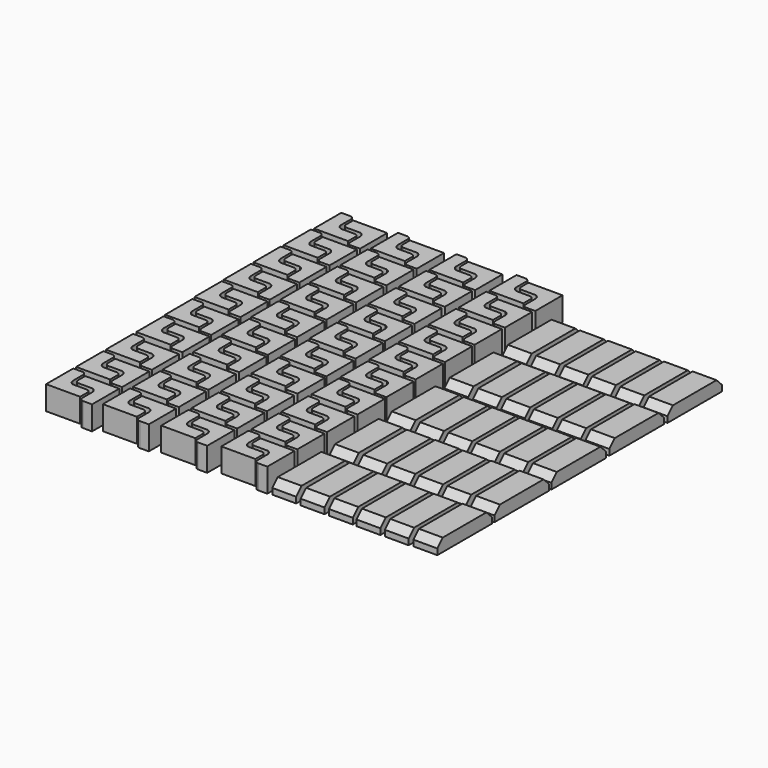
from build123d import *

# Parameters (mm, degrees)
F1_DEPTH = 8.89
F2_W     = 8.89
F2_H     = 25.4
F3_DEPTH = 4.7625
F4_SIZE  = 2.54


with BuildPart() as f1:
    # F0 (on Top) → F1 (new body)
    with BuildSketch(Plane.XY):
        with BuildLine():
            Line((2.519087, 15.039686), (2.519087, 2.339686))
            Line((2.519087, 2.339686), (15.219087, 2.339686))
            Line((15.219087, 2.339686), (15.219087, 5.682987))
            ThreePointArc((15.219087, 5.682987), (14.803414, 6.686512), (13.799888, 7.102186))
            Line((13.799888, 7.102186), (8.71567, 7.102186))
            ThreePointArc((8.71567, 7.102186), (7.67876, 7.840936), (7.281587, 9.050559))
            Line((7.281587, 9.050559), (7.281587, 13.620487))
            ThreePointArc((7.281587, 13.620487), (6.865914, 14.624012), (5.862388, 15.039686))
            Line((5.862388, 15.039686), (2.519087, 15.039686))
        make_face()
        with BuildLine():
            Line((20.947106, 0.746839), (20.947106, 13.446839))
            Line((20.947106, 13.446839), (8.247106, 13.446839))
            Line((8.247106, 13.446839), (8.247106, 10.103538))
            ThreePointArc((8.247106, 10.103538), (8.66278, 9.100012), (9.666305, 8.684339))
            Line((9.666305, 8.684339), (14.750524, 8.684339))
            ThreePointArc((14.750524, 8.684339), (15.787434, 7.945588), (16.184606, 6.735965))
            Line((16.184606, 6.735965), (16.184606, 2.166038))
            ThreePointArc((16.184606, 2.166038), (16.60028, 1.162512), (17.603805, 0.746839))
            Line((17.603805, 0.746839), (20.947106, 0.746839))
        make_face()
        with BuildLine():
            Line((2.54, 29.009686), (2.54, 16.309686))
            Line((2.54, 16.309686), (15.24, 16.309686))
            Line((15.24, 16.309686), (15.24, 19.652987))
            ThreePointArc((15.24, 19.652987), (14.824326, 20.656512), (13.820801, 21.072186))
            Line((13.820801, 21.072186), (8.736582, 21.072186))
            ThreePointArc((8.736582, 21.072186), (7.699673, 21.810936), (7.3025, 23.020559))
            Line((7.3025, 23.020559), (7.3025, 27.590487))
            ThreePointArc((7.3025, 27.590487), (6.886826, 28.594012), (5.883301, 29.009686))
            Line((5.883301, 29.009686), (2.54, 29.009686))
        make_face()
        with BuildLine():
            Line((20.968019, 14.716839), (20.968019, 27.416839))
            Line((20.968019, 27.416839), (8.268019, 27.416839))
            Line((8.268019, 27.416839), (8.268019, 24.073538))
            ThreePointArc((8.268019, 24.073538), (8.683693, 23.070012), (9.687218, 22.654339))
            Line((9.687218, 22.654339), (14.771437, 22.654339))
            ThreePointArc((14.771437, 22.654339), (15.808346, 21.915588), (16.205519, 20.705965))
            Line((16.205519, 20.705965), (16.205519, 16.136038))
            ThreePointArc((16.205519, 16.136038), (16.621193, 15.132512), (17.624718, 14.716839))
            Line((17.624718, 14.716839), (20.968019, 14.716839))
        make_face()
        with BuildLine():
            Line((2.4892, 42.939077), (2.4892, 30.239077))
            Line((2.4892, 30.239077), (15.1892, 30.239077))
            Line((15.1892, 30.239077), (15.1892, 33.582378))
            ThreePointArc((15.1892, 33.582378), (14.773526, 34.585904), (13.770001, 35.001577))
            Line((13.770001, 35.001577), (8.685782, 35.001577))
            ThreePointArc((8.685782, 35.001577), (7.648872, 35.740328), (7.2517, 36.949951))
            Line((7.2517, 36.949951), (7.2517, 41.519878))
            ThreePointArc((7.2517, 41.519878), (6.836026, 42.523404), (5.832501, 42.939077))
            Line((5.832501, 42.939077), (2.4892, 42.939077))
        make_face()
        with BuildLine():
            Line((20.917219, 28.64623), (20.917219, 41.34623))
            Line((20.917219, 41.34623), (8.217219, 41.34623))
            Line((8.217219, 41.34623), (8.217219, 38.002929))
            ThreePointArc((8.217219, 38.002929), (8.632892, 36.999404), (9.636418, 36.58373))
            Line((9.636418, 36.58373), (14.720636, 36.58373))
            ThreePointArc((14.720636, 36.58373), (15.757546, 35.84498), (16.154719, 34.635357))
            Line((16.154719, 34.635357), (16.154719, 30.065429))
            ThreePointArc((16.154719, 30.065429), (16.570392, 29.061904), (17.573918, 28.64623))
            Line((17.573918, 28.64623), (20.917219, 28.64623))
        make_face()
        with BuildLine():
            Line((2.4892, 57.163076), (2.4892, 44.463076))
            Line((2.4892, 44.463076), (15.1892, 44.463076))
            Line((15.1892, 44.463076), (15.1892, 47.806377))
            ThreePointArc((15.1892, 47.806377), (14.773526, 48.809902), (13.770001, 49.225576))
            Line((13.770001, 49.225576), (8.685782, 49.225576))
            ThreePointArc((8.685782, 49.225576), (7.648872, 49.964326), (7.2517, 51.173949))
            Line((7.2517, 51.173949), (7.2517, 55.743877))
            ThreePointArc((7.2517, 55.743877), (6.836026, 56.747402), (5.832501, 57.163076))
            Line((5.832501, 57.163076), (2.4892, 57.163076))
        make_face()
        with BuildLine():
            Line((20.917219, 42.870228), (20.917219, 55.570228))
            Line((20.917219, 55.570228), (8.217219, 55.570228))
            Line((8.217219, 55.570228), (8.217219, 52.226927))
            ThreePointArc((8.217219, 52.226927), (8.632892, 51.223402), (9.636418, 50.807728))
            Line((9.636418, 50.807728), (14.720636, 50.807728))
            ThreePointArc((14.720636, 50.807728), (15.757546, 50.068978), (16.154719, 48.859355))
            Line((16.154719, 48.859355), (16.154719, 44.289427))
            ThreePointArc((16.154719, 44.289427), (16.570392, 43.285902), (17.573918, 42.870228))
            Line((17.573918, 42.870228), (20.917219, 42.870228))
        make_face()
        with BuildLine():
            Line((2.2379, 70.930661), (2.2379, 58.230661))
            Line((2.2379, 58.230661), (14.9379, 58.230661))
            Line((14.9379, 58.230661), (14.9379, 61.573962))
            ThreePointArc((14.9379, 61.573962), (14.522226, 62.577487), (13.518701, 62.993161))
            Line((13.518701, 62.993161), (8.434482, 62.993161))
            ThreePointArc((8.434482, 62.993161), (7.397573, 63.731911), (7.0004, 64.941534))
            Line((7.0004, 64.941534), (7.0004, 69.511462))
            ThreePointArc((7.0004, 69.511462), (6.584726, 70.514987), (5.581201, 70.930661))
            Line((5.581201, 70.930661), (2.2379, 70.930661))
        make_face()
        with BuildLine():
            Line((20.665919, 56.637813), (20.665919, 69.337813))
            Line((20.665919, 69.337813), (7.965919, 69.337813))
            Line((7.965919, 69.337813), (7.965919, 65.994512))
            ThreePointArc((7.965919, 65.994512), (8.381593, 64.990987), (9.385118, 64.575313))
            Line((9.385118, 64.575313), (14.469337, 64.575313))
            ThreePointArc((14.469337, 64.575313), (15.506246, 63.836563), (15.903419, 62.62694))
            Line((15.903419, 62.62694), (15.903419, 58.057012))
            ThreePointArc((15.903419, 58.057012), (16.319093, 57.053487), (17.322618, 56.637813))
            Line((17.322618, 56.637813), (20.665919, 56.637813))
        make_face()
        with BuildLine():
            Line((1.898075, 85.015395), (1.898075, 72.315395))
            Line((1.898075, 72.315395), (14.598075, 72.315395))
            Line((14.598075, 72.315395), (14.598075, 75.658696))
            ThreePointArc((14.598075, 75.658696), (14.182402, 76.662221), (13.178876, 77.077895))
            Line((13.178876, 77.077895), (8.094658, 77.077895))
            ThreePointArc((8.094658, 77.077895), (7.057748, 77.816645), (6.660575, 79.026268))
            Line((6.660575, 79.026268), (6.660575, 83.596196))
            ThreePointArc((6.660575, 83.596196), (6.244902, 84.599721), (5.241376, 85.015395))
            Line((5.241376, 85.015395), (1.898075, 85.015395))
        make_face()
        with BuildLine():
            Line((20.326094, 70.722547), (20.326094, 83.422547))
            Line((20.326094, 83.422547), (7.626094, 83.422547))
            Line((7.626094, 83.422547), (7.626094, 80.079246))
            ThreePointArc((7.626094, 80.079246), (8.041768, 79.075721), (9.045293, 78.660047))
            Line((9.045293, 78.660047), (14.129512, 78.660047))
            ThreePointArc((14.129512, 78.660047), (15.166422, 77.921297), (15.563594, 76.711674))
            Line((15.563594, 76.711674), (15.563594, 72.141746))
            ThreePointArc((15.563594, 72.141746), (15.979268, 71.138221), (16.982793, 70.722547))
            Line((16.982793, 70.722547), (20.326094, 70.722547))
        make_face()
        with BuildLine():
            Line((1.708062, 98.904313), (1.708062, 86.204313))
            Line((1.708062, 86.204313), (14.408062, 86.204313))
            Line((14.408062, 86.204313), (14.408062, 89.547614))
            ThreePointArc((14.408062, 89.547614), (13.992388, 90.551139), (12.988863, 90.966813))
            Line((12.988863, 90.966813), (7.904644, 90.966813))
            ThreePointArc((7.904644, 90.966813), (6.867735, 91.705563), (6.470562, 92.915186))
            Line((6.470562, 92.915186), (6.470562, 97.485114))
            ThreePointArc((6.470562, 97.485114), (6.054888, 98.488639), (5.051363, 98.904313))
            Line((5.051363, 98.904313), (1.708062, 98.904313))
        make_face()
        with BuildLine():
            Line((20.136081, 84.611465), (20.136081, 97.311465))
            Line((20.136081, 97.311465), (7.436081, 97.311465))
            Line((7.436081, 97.311465), (7.436081, 93.968164))
            ThreePointArc((7.436081, 93.968164), (7.851755, 92.964639), (8.85528, 92.548965))
            Line((8.85528, 92.548965), (13.939499, 92.548965))
            ThreePointArc((13.939499, 92.548965), (14.976408, 91.810215), (15.373581, 90.600592))
            Line((15.373581, 90.600592), (15.373581, 86.030664))
            ThreePointArc((15.373581, 86.030664), (15.789255, 85.027139), (16.79278, 84.611465))
            Line((16.79278, 84.611465), (20.136081, 84.611465))
        make_face()
        with BuildLine():
            Line((1.64505, 112.803624), (1.64505, 100.103624))
            Line((1.64505, 100.103624), (14.34505, 100.103624))
            Line((14.34505, 100.103624), (14.34505, 103.446925))
            ThreePointArc((14.34505, 103.446925), (13.929377, 104.45045), (12.925851, 104.866124))
            Line((12.925851, 104.866124), (7.841633, 104.866124))
            ThreePointArc((7.841633, 104.866124), (6.804723, 105.604875), (6.40755, 106.814497))
            Line((6.40755, 106.814497), (6.40755, 111.384425))
            ThreePointArc((6.40755, 111.384425), (5.991877, 112.38795), (4.988351, 112.803624))
            Line((4.988351, 112.803624), (1.64505, 112.803624))
        make_face()
        with BuildLine():
            Line((20.073069, 98.510777), (20.073069, 111.210777))
            Line((20.073069, 111.210777), (7.373069, 111.210777))
            Line((7.373069, 111.210777), (7.373069, 107.867476))
            ThreePointArc((7.373069, 107.867476), (7.788743, 106.86395), (8.792268, 106.448277))
            Line((8.792268, 106.448277), (13.876487, 106.448277))
            ThreePointArc((13.876487, 106.448277), (14.913397, 105.709526), (15.310569, 104.499904))
            Line((15.310569, 104.499904), (15.310569, 99.929976))
            ThreePointArc((15.310569, 99.929976), (15.726243, 98.92645), (16.729768, 98.510777))
            Line((16.729768, 98.510777), (20.073069, 98.510777))
        make_face()
        with BuildLine():
            Line((1.779004, 126.755589), (1.779004, 114.055589))
            Line((1.779004, 114.055589), (14.479004, 114.055589))
            Line((14.479004, 114.055589), (14.479004, 117.39889))
            ThreePointArc((14.479004, 117.39889), (14.06333, 118.402415), (13.059805, 118.818089))
            Line((13.059805, 118.818089), (7.975586, 118.818089))
            ThreePointArc((7.975586, 118.818089), (6.938677, 119.556839), (6.541504, 120.766462))
            Line((6.541504, 120.766462), (6.541504, 125.33639))
            ThreePointArc((6.541504, 125.33639), (6.12583, 126.339915), (5.122305, 126.755589))
            Line((5.122305, 126.755589), (1.779004, 126.755589))
        make_face()
        with BuildLine():
            Line((20.207023, 112.462741), (20.207023, 125.162741))
            Line((20.207023, 125.162741), (7.507023, 125.162741))
            Line((7.507023, 125.162741), (7.507023, 121.81944))
            ThreePointArc((7.507023, 121.81944), (7.922697, 120.815915), (8.926222, 120.400241))
            Line((8.926222, 120.400241), (14.010441, 120.400241))
            ThreePointArc((14.010441, 120.400241), (15.04735, 119.661491), (15.444523, 118.451868))
            Line((15.444523, 118.451868), (15.444523, 113.88194))
            ThreePointArc((15.444523, 113.88194), (15.860197, 112.878415), (16.863722, 112.462741))
            Line((16.863722, 112.462741), (20.207023, 112.462741))
        make_face()
        with BuildLine():
            Line((2.12919, 140.492731), (2.12919, 127.792731))
            Line((2.12919, 127.792731), (14.82919, 127.792731))
            Line((14.82919, 127.792731), (14.82919, 131.136032))
            ThreePointArc((14.82919, 131.136032), (14.413516, 132.139557), (13.409991, 132.555231))
            Line((13.409991, 132.555231), (8.325772, 132.555231))
            ThreePointArc((8.325772, 132.555231), (7.288862, 133.293981), (6.89169, 134.503604))
            Line((6.89169, 134.503604), (6.89169, 139.073532))
            ThreePointArc((6.89169, 139.073532), (6.476016, 140.077057), (5.472491, 140.492731))
            Line((5.472491, 140.492731), (2.12919, 140.492731))
        make_face()
        with BuildLine():
            Line((20.557208, 126.199883), (20.557208, 138.899883))
            Line((20.557208, 138.899883), (7.857208, 138.899883))
            Line((7.857208, 138.899883), (7.857208, 135.556583))
            ThreePointArc((7.857208, 135.556583), (8.272882, 134.553057), (9.276407, 134.137383))
            Line((9.276407, 134.137383), (14.360626, 134.137383))
            ThreePointArc((14.360626, 134.137383), (15.397536, 133.398633), (15.794708, 132.18901))
            Line((15.794708, 132.18901), (15.794708, 127.619083))
            ThreePointArc((15.794708, 127.619083), (16.210382, 126.615557), (17.213907, 126.199883))
            Line((17.213907, 126.199883), (20.557208, 126.199883))
        make_face()
        with BuildLine():
            Line((22.914064, 140.970224), (22.914064, 128.270224))
            Line((22.914064, 128.270224), (35.614064, 128.270224))
            Line((35.614064, 128.270224), (35.614064, 131.613525))
            ThreePointArc((35.614064, 131.613525), (35.198391, 132.61705), (34.194865, 133.032724))
            Line((34.194865, 133.032724), (29.110647, 133.032724))
            ThreePointArc((29.110647, 133.032724), (28.073737, 133.771474), (27.676564, 134.981097))
            Line((27.676564, 134.981097), (27.676564, 139.551025))
            ThreePointArc((27.676564, 139.551025), (27.260891, 140.55455), (26.257365, 140.970224))
            Line((26.257365, 140.970224), (22.914064, 140.970224))
        make_face()
        with BuildLine():
            Line((41.342083, 126.677376), (41.342083, 139.377376))
            Line((41.342083, 139.377376), (28.642083, 139.377376))
            Line((28.642083, 139.377376), (28.642083, 136.034075))
            ThreePointArc((28.642083, 136.034075), (29.057757, 135.03055), (30.061282, 134.614876))
            Line((30.061282, 134.614876), (35.145501, 134.614876))
            ThreePointArc((35.145501, 134.614876), (36.182411, 133.876126), (36.579583, 132.666503))
            Line((36.579583, 132.666503), (36.579583, 128.096575))
            ThreePointArc((36.579583, 128.096575), (36.995257, 127.09305), (37.998782, 126.677376))
            Line((37.998782, 126.677376), (41.342083, 126.677376))
        make_face()
        with BuildLine():
            Line((22.563879, 127.233082), (22.563879, 114.533082))
            Line((22.563879, 114.533082), (35.263879, 114.533082))
            Line((35.263879, 114.533082), (35.263879, 117.876383))
            ThreePointArc((35.263879, 117.876383), (34.848205, 118.879908), (33.84468, 119.295582))
            Line((33.84468, 119.295582), (28.760461, 119.295582))
            ThreePointArc((28.760461, 119.295582), (27.723551, 120.034332), (27.326379, 121.243955))
            Line((27.326379, 121.243955), (27.326379, 125.813883))
            ThreePointArc((27.326379, 125.813883), (26.910705, 126.817408), (25.90718, 127.233082))
            Line((25.90718, 127.233082), (22.563879, 127.233082))
        make_face()
        with BuildLine():
            Line((40.991898, 112.940234), (40.991898, 125.640234))
            Line((40.991898, 125.640234), (28.291898, 125.640234))
            Line((28.291898, 125.640234), (28.291898, 122.296933))
            ThreePointArc((28.291898, 122.296933), (28.707571, 121.293408), (29.711097, 120.877734))
            Line((29.711097, 120.877734), (34.795315, 120.877734))
            ThreePointArc((34.795315, 120.877734), (35.832225, 120.138984), (36.229398, 118.929361))
            Line((36.229398, 118.929361), (36.229398, 114.359433))
            ThreePointArc((36.229398, 114.359433), (36.645071, 113.355908), (37.648597, 112.940234))
            Line((37.648597, 112.940234), (40.991898, 112.940234))
        make_face()
        with BuildLine():
            Line((22.429925, 113.281117), (22.429925, 100.581117))
            Line((22.429925, 100.581117), (35.129925, 100.581117))
            Line((35.129925, 100.581117), (35.129925, 103.924418))
            ThreePointArc((35.129925, 103.924418), (34.714251, 104.927943), (33.710726, 105.343617))
            Line((33.710726, 105.343617), (28.626507, 105.343617))
            ThreePointArc((28.626507, 105.343617), (27.589598, 106.082367), (27.192425, 107.29199))
            Line((27.192425, 107.29199), (27.192425, 111.861918))
            ThreePointArc((27.192425, 111.861918), (26.776751, 112.865443), (25.773226, 113.281117))
            Line((25.773226, 113.281117), (22.429925, 113.281117))
        make_face()
        with BuildLine():
            Line((40.857944, 98.98827), (40.857944, 111.68827))
            Line((40.857944, 111.68827), (28.157944, 111.68827))
            Line((28.157944, 111.68827), (28.157944, 108.344969))
            ThreePointArc((28.157944, 108.344969), (28.573618, 107.341443), (29.577143, 106.92577))
            Line((29.577143, 106.92577), (34.661362, 106.92577))
            ThreePointArc((34.661362, 106.92577), (35.698271, 106.187019), (36.095444, 104.977396))
            Line((36.095444, 104.977396), (36.095444, 100.407469))
            ThreePointArc((36.095444, 100.407469), (36.511118, 99.403943), (37.514643, 98.98827))
            Line((37.514643, 98.98827), (40.857944, 98.98827))
        make_face()
        with BuildLine():
            Line((22.492937, 99.381806), (22.492937, 86.681806))
            Line((22.492937, 86.681806), (35.192937, 86.681806))
            Line((35.192937, 86.681806), (35.192937, 90.025107))
            ThreePointArc((35.192937, 90.025107), (34.777263, 91.028632), (33.773738, 91.444306))
            Line((33.773738, 91.444306), (28.689519, 91.444306))
            ThreePointArc((28.689519, 91.444306), (27.65261, 92.183056), (27.255437, 93.392679))
            Line((27.255437, 93.392679), (27.255437, 97.962607))
            ThreePointArc((27.255437, 97.962607), (26.839763, 98.966132), (25.836238, 99.381806))
            Line((25.836238, 99.381806), (22.492937, 99.381806))
        make_face()
        with BuildLine():
            Line((40.920956, 85.088958), (40.920956, 97.788958))
            Line((40.920956, 97.788958), (28.220956, 97.788958))
            Line((28.220956, 97.788958), (28.220956, 94.445657))
            ThreePointArc((28.220956, 94.445657), (28.636629, 93.442132), (29.640155, 93.026458))
            Line((29.640155, 93.026458), (34.724373, 93.026458))
            ThreePointArc((34.724373, 93.026458), (35.761283, 92.287708), (36.158456, 91.078085))
            Line((36.158456, 91.078085), (36.158456, 86.508157))
            ThreePointArc((36.158456, 86.508157), (36.574129, 85.504632), (37.577655, 85.088958))
            Line((37.577655, 85.088958), (40.920956, 85.088958))
        make_face()
        with BuildLine():
            Line((22.68295, 85.492888), (22.68295, 72.792888))
            Line((22.68295, 72.792888), (35.38295, 72.792888))
            Line((35.38295, 72.792888), (35.38295, 76.136189))
            ThreePointArc((35.38295, 76.136189), (34.967276, 77.139714), (33.963751, 77.555388))
            Line((33.963751, 77.555388), (28.879532, 77.555388))
            ThreePointArc((28.879532, 77.555388), (27.842623, 78.294138), (27.44545, 79.503761))
            Line((27.44545, 79.503761), (27.44545, 84.073689))
            ThreePointArc((27.44545, 84.073689), (27.029776, 85.077214), (26.026251, 85.492888))
            Line((26.026251, 85.492888), (22.68295, 85.492888))
        make_face()
        with BuildLine():
            Line((41.110969, 71.20004), (41.110969, 83.90004))
            Line((41.110969, 83.90004), (28.410969, 83.90004))
            Line((28.410969, 83.90004), (28.410969, 80.556739))
            ThreePointArc((28.410969, 80.556739), (28.826643, 79.553214), (29.830168, 79.13754))
            Line((29.830168, 79.13754), (34.914387, 79.13754))
            ThreePointArc((34.914387, 79.13754), (35.951296, 78.39879), (36.348469, 77.189167))
            Line((36.348469, 77.189167), (36.348469, 72.619239))
            ThreePointArc((36.348469, 72.619239), (36.764143, 71.615714), (37.767668, 71.20004))
            Line((37.767668, 71.20004), (41.110969, 71.20004))
        make_face()
        with BuildLine():
            Line((23.022775, 71.408154), (23.022775, 58.708154))
            Line((23.022775, 58.708154), (35.722775, 58.708154))
            Line((35.722775, 58.708154), (35.722775, 62.051455))
            ThreePointArc((35.722775, 62.051455), (35.307101, 63.05498), (34.303576, 63.470654))
            Line((34.303576, 63.470654), (29.219357, 63.470654))
            ThreePointArc((29.219357, 63.470654), (28.182448, 64.209404), (27.785275, 65.419027))
            Line((27.785275, 65.419027), (27.785275, 69.988955))
            ThreePointArc((27.785275, 69.988955), (27.369601, 70.99248), (26.366076, 71.408154))
            Line((26.366076, 71.408154), (23.022775, 71.408154))
        make_face()
        with BuildLine():
            Line((41.450794, 57.115306), (41.450794, 69.815306))
            Line((41.450794, 69.815306), (28.750794, 69.815306))
            Line((28.750794, 69.815306), (28.750794, 66.472005))
            ThreePointArc((28.750794, 66.472005), (29.166467, 65.46848), (30.169993, 65.052806))
            Line((30.169993, 65.052806), (35.254211, 65.052806))
            ThreePointArc((35.254211, 65.052806), (36.291121, 64.314056), (36.688294, 63.104433))
            Line((36.688294, 63.104433), (36.688294, 58.534505))
            ThreePointArc((36.688294, 58.534505), (37.103967, 57.53098), (38.107493, 57.115306))
            Line((38.107493, 57.115306), (41.450794, 57.115306))
        make_face()
        with BuildLine():
            Line((23.274075, 57.640569), (23.274075, 44.940569))
            Line((23.274075, 44.940569), (35.974075, 44.940569))
            Line((35.974075, 44.940569), (35.974075, 48.283869))
            ThreePointArc((35.974075, 48.283869), (35.558401, 49.287395), (34.554876, 49.703069))
            Line((34.554876, 49.703069), (29.470657, 49.703069))
            ThreePointArc((29.470657, 49.703069), (28.433747, 50.441819), (28.036575, 51.651442))
            Line((28.036575, 51.651442), (28.036575, 56.221369))
            ThreePointArc((28.036575, 56.221369), (27.620901, 57.224895), (26.617376, 57.640569))
            Line((26.617376, 57.640569), (23.274075, 57.640569))
        make_face()
        with BuildLine():
            Line((41.702093, 43.347721), (41.702093, 56.047721))
            Line((41.702093, 56.047721), (29.002093, 56.047721))
            Line((29.002093, 56.047721), (29.002093, 52.70442))
            ThreePointArc((29.002093, 52.70442), (29.417767, 51.700895), (30.421292, 51.285221))
            Line((30.421292, 51.285221), (35.505511, 51.285221))
            ThreePointArc((35.505511, 51.285221), (36.542421, 50.546471), (36.939593, 49.336848))
            Line((36.939593, 49.336848), (36.939593, 44.76692))
            ThreePointArc((36.939593, 44.76692), (37.355267, 43.763395), (38.358792, 43.347721))
            Line((38.358792, 43.347721), (41.702093, 43.347721))
        make_face()
        with BuildLine():
            Line((23.274075, 43.41657), (23.274075, 30.71657))
            Line((23.274075, 30.71657), (35.974075, 30.71657))
            Line((35.974075, 30.71657), (35.974075, 34.059871))
            ThreePointArc((35.974075, 34.059871), (35.558401, 35.063396), (34.554876, 35.47907))
            Line((34.554876, 35.47907), (29.470657, 35.47907))
            ThreePointArc((29.470657, 35.47907), (28.433747, 36.21782), (28.036575, 37.427443))
            Line((28.036575, 37.427443), (28.036575, 41.997371))
            ThreePointArc((28.036575, 41.997371), (27.620901, 43.000896), (26.617376, 43.41657))
            Line((26.617376, 43.41657), (23.274075, 43.41657))
        make_face()
        with BuildLine():
            Line((41.702093, 29.123723), (41.702093, 41.823723))
            Line((41.702093, 41.823723), (29.002093, 41.823723))
            Line((29.002093, 41.823723), (29.002093, 38.480422))
            ThreePointArc((29.002093, 38.480422), (29.417767, 37.476896), (30.421292, 37.061223))
            Line((30.421292, 37.061223), (35.505511, 37.061223))
            ThreePointArc((35.505511, 37.061223), (36.542421, 36.322472), (36.939593, 35.112849))
            Line((36.939593, 35.112849), (36.939593, 30.542922))
            ThreePointArc((36.939593, 30.542922), (37.355267, 29.539396), (38.358792, 29.123723))
            Line((38.358792, 29.123723), (41.702093, 29.123723))
        make_face()
        with BuildLine():
            Line((23.324875, 29.487179), (23.324875, 16.787179))
            Line((23.324875, 16.787179), (36.024875, 16.787179))
            Line((36.024875, 16.787179), (36.024875, 20.13048))
            ThreePointArc((36.024875, 20.13048), (35.609201, 21.134005), (34.605676, 21.549679))
            Line((34.605676, 21.549679), (29.521457, 21.549679))
            ThreePointArc((29.521457, 21.549679), (28.484547, 22.288429), (28.087375, 23.498052))
            Line((28.087375, 23.498052), (28.087375, 28.06798))
            ThreePointArc((28.087375, 28.06798), (27.671701, 29.071505), (26.668176, 29.487179))
            Line((26.668176, 29.487179), (23.324875, 29.487179))
        make_face()
        with BuildLine():
            Line((41.752894, 15.194331), (41.752894, 27.894331))
            Line((41.752894, 27.894331), (29.052894, 27.894331))
            Line((29.052894, 27.894331), (29.052894, 24.55103))
            ThreePointArc((29.052894, 24.55103), (29.468567, 23.547505), (30.472093, 23.131831))
            Line((30.472093, 23.131831), (35.556311, 23.131831))
            ThreePointArc((35.556311, 23.131831), (36.593221, 22.393081), (36.990394, 21.183458))
            Line((36.990394, 21.183458), (36.990394, 16.61353))
            ThreePointArc((36.990394, 16.61353), (37.406067, 15.610005), (38.409593, 15.194331))
            Line((38.409593, 15.194331), (41.752894, 15.194331))
        make_face()
        with BuildLine():
            Line((23.303962, 15.517179), (23.303962, 2.817179))
            Line((23.303962, 2.817179), (36.003962, 2.817179))
            Line((36.003962, 2.817179), (36.003962, 6.16048))
            ThreePointArc((36.003962, 6.16048), (35.588288, 7.164005), (34.584763, 7.579679))
            Line((34.584763, 7.579679), (29.500544, 7.579679))
            ThreePointArc((29.500544, 7.579679), (28.463635, 8.318429), (28.066462, 9.528052))
            Line((28.066462, 9.528052), (28.066462, 14.09798))
            ThreePointArc((28.066462, 14.09798), (27.650788, 15.101505), (26.647263, 15.517179))
            Line((26.647263, 15.517179), (23.303962, 15.517179))
        make_face()
        with BuildLine():
            Line((41.731981, 1.224331), (41.731981, 13.924331))
            Line((41.731981, 13.924331), (29.031981, 13.924331))
            Line((29.031981, 13.924331), (29.031981, 10.58103))
            ThreePointArc((29.031981, 10.58103), (29.447655, 9.577505), (30.45118, 9.161831))
            Line((30.45118, 9.161831), (35.535399, 9.161831))
            ThreePointArc((35.535399, 9.161831), (36.572308, 8.423081), (36.969481, 7.213458))
            Line((36.969481, 7.213458), (36.969481, 2.64353))
            ThreePointArc((36.969481, 2.64353), (37.385155, 1.640005), (38.38868, 1.224331))
            Line((38.38868, 1.224331), (41.731981, 1.224331))
        make_face()
        with BuildLine():
            Line((44.646767, 141.046809), (44.646767, 128.346809))
            Line((44.646767, 128.346809), (57.346767, 128.346809))
            Line((57.346767, 128.346809), (57.346767, 131.69011))
            ThreePointArc((57.346767, 131.69011), (56.931093, 132.693635), (55.927568, 133.109309))
            Line((55.927568, 133.109309), (50.843349, 133.109309))
            ThreePointArc((50.843349, 133.109309), (49.80644, 133.848059), (49.409267, 135.057682))
            Line((49.409267, 135.057682), (49.409267, 139.62761))
            ThreePointArc((49.409267, 139.62761), (48.993593, 140.631135), (47.990068, 141.046809))
            Line((47.990068, 141.046809), (44.646767, 141.046809))
        make_face()
        with BuildLine():
            Line((63.074786, 126.753961), (63.074786, 139.453961))
            Line((63.074786, 139.453961), (50.374786, 139.453961))
            Line((50.374786, 139.453961), (50.374786, 136.11066))
            ThreePointArc((50.374786, 136.11066), (50.790459, 135.107135), (51.793985, 134.691461))
            Line((51.793985, 134.691461), (56.878203, 134.691461))
            ThreePointArc((56.878203, 134.691461), (57.915113, 133.952711), (58.312286, 132.743088))
            Line((58.312286, 132.743088), (58.312286, 128.17316))
            ThreePointArc((58.312286, 128.17316), (58.727959, 127.169635), (59.731485, 126.753961))
            Line((59.731485, 126.753961), (63.074786, 126.753961))
        make_face()
        with BuildLine():
            Line((44.296581, 127.309667), (44.296581, 114.609667))
            Line((44.296581, 114.609667), (56.996581, 114.609667))
            Line((56.996581, 114.609667), (56.996581, 117.952968))
            ThreePointArc((56.996581, 117.952968), (56.580908, 118.956493), (55.577382, 119.372167))
            Line((55.577382, 119.372167), (50.493164, 119.372167))
            ThreePointArc((50.493164, 119.372167), (49.456254, 120.110917), (49.059081, 121.32054))
            Line((49.059081, 121.32054), (49.059081, 125.890468))
            ThreePointArc((49.059081, 125.890468), (48.643408, 126.893993), (47.639882, 127.309667))
            Line((47.639882, 127.309667), (44.296581, 127.309667))
        make_face()
        with BuildLine():
            Line((62.7246, 113.016819), (62.7246, 125.716819))
            Line((62.7246, 125.716819), (50.0246, 125.716819))
            Line((50.0246, 125.716819), (50.0246, 122.373518))
            ThreePointArc((50.0246, 122.373518), (50.440274, 121.369993), (51.443799, 120.954319))
            Line((51.443799, 120.954319), (56.528018, 120.954319))
            ThreePointArc((56.528018, 120.954319), (57.564928, 120.215569), (57.9621, 119.005946))
            Line((57.9621, 119.005946), (57.9621, 114.436018))
            ThreePointArc((57.9621, 114.436018), (58.377774, 113.432493), (59.381299, 113.016819))
            Line((59.381299, 113.016819), (62.7246, 113.016819))
        make_face()
        with BuildLine():
            Line((44.162628, 113.357702), (44.162628, 100.657702))
            Line((44.162628, 100.657702), (56.862628, 100.657702))
            Line((56.862628, 100.657702), (56.862628, 104.001003))
            ThreePointArc((56.862628, 104.001003), (56.446954, 105.004528), (55.443429, 105.420202))
            Line((55.443429, 105.420202), (50.35921, 105.420202))
            ThreePointArc((50.35921, 105.420202), (49.3223, 106.158952), (48.925128, 107.368575))
            Line((48.925128, 107.368575), (48.925128, 111.938503))
            ThreePointArc((48.925128, 111.938503), (48.509454, 112.942028), (47.505929, 113.357702))
            Line((47.505929, 113.357702), (44.162628, 113.357702))
        make_face()
        with BuildLine():
            Line((62.590646, 99.064855), (62.590646, 111.764855))
            Line((62.590646, 111.764855), (49.890646, 111.764855))
            Line((49.890646, 111.764855), (49.890646, 108.421554))
            ThreePointArc((49.890646, 108.421554), (50.30632, 107.418028), (51.309845, 107.002355))
            Line((51.309845, 107.002355), (56.394064, 107.002355))
            ThreePointArc((56.394064, 107.002355), (57.430974, 106.263604), (57.828146, 105.053981))
            Line((57.828146, 105.053981), (57.828146, 100.484054))
            ThreePointArc((57.828146, 100.484054), (58.24382, 99.480528), (59.247345, 99.064855))
            Line((59.247345, 99.064855), (62.590646, 99.064855))
        make_face()
        with BuildLine():
            Line((44.225639, 99.458391), (44.225639, 86.758391))
            Line((44.225639, 86.758391), (56.925639, 86.758391))
            Line((56.925639, 86.758391), (56.925639, 90.101692))
            ThreePointArc((56.925639, 90.101692), (56.509966, 91.105217), (55.50644, 91.520891))
            Line((55.50644, 91.520891), (50.422222, 91.520891))
            ThreePointArc((50.422222, 91.520891), (49.385312, 92.259641), (48.988139, 93.469264))
            Line((48.988139, 93.469264), (48.988139, 98.039192))
            ThreePointArc((48.988139, 98.039192), (48.572466, 99.042717), (47.56894, 99.458391))
            Line((47.56894, 99.458391), (44.225639, 99.458391))
        make_face()
        with BuildLine():
            Line((62.653658, 85.165543), (62.653658, 97.865543))
            Line((62.653658, 97.865543), (49.953658, 97.865543))
            Line((49.953658, 97.865543), (49.953658, 94.522242))
            ThreePointArc((49.953658, 94.522242), (50.369332, 93.518717), (51.372857, 93.103043))
            Line((51.372857, 93.103043), (56.457076, 93.103043))
            ThreePointArc((56.457076, 93.103043), (57.493986, 92.364293), (57.891158, 91.15467))
            Line((57.891158, 91.15467), (57.891158, 86.584742))
            ThreePointArc((57.891158, 86.584742), (58.306832, 85.581217), (59.310357, 85.165543))
            Line((59.310357, 85.165543), (62.653658, 85.165543))
        make_face()
        with BuildLine():
            Line((44.415653, 85.569473), (44.415653, 72.869473))
            Line((44.415653, 72.869473), (57.115653, 72.869473))
            Line((57.115653, 72.869473), (57.115653, 76.212774))
            ThreePointArc((57.115653, 76.212774), (56.699979, 77.216299), (55.696454, 77.631973))
            Line((55.696454, 77.631973), (50.612235, 77.631973))
            ThreePointArc((50.612235, 77.631973), (49.575325, 78.370723), (49.178153, 79.580346))
            Line((49.178153, 79.580346), (49.178153, 84.150274))
            ThreePointArc((49.178153, 84.150274), (48.762479, 85.153799), (47.758954, 85.569473))
            Line((47.758954, 85.569473), (44.415653, 85.569473))
        make_face()
        with BuildLine():
            Line((62.843671, 71.276625), (62.843671, 83.976625))
            Line((62.843671, 83.976625), (50.143671, 83.976625))
            Line((50.143671, 83.976625), (50.143671, 80.633324))
            ThreePointArc((50.143671, 80.633324), (50.559345, 79.629799), (51.56287, 79.214125))
            Line((51.56287, 79.214125), (56.647089, 79.214125))
            ThreePointArc((56.647089, 79.214125), (57.683999, 78.475375), (58.081171, 77.265752))
            Line((58.081171, 77.265752), (58.081171, 72.695824))
            ThreePointArc((58.081171, 72.695824), (58.496845, 71.692299), (59.50037, 71.276625))
            Line((59.50037, 71.276625), (62.843671, 71.276625))
        make_face()
        with BuildLine():
            Line((44.755477, 71.484739), (44.755477, 58.784739))
            Line((44.755477, 58.784739), (57.455477, 58.784739))
            Line((57.455477, 58.784739), (57.455477, 62.12804))
            ThreePointArc((57.455477, 62.12804), (57.039804, 63.131565), (56.036278, 63.547239))
            Line((56.036278, 63.547239), (50.95206, 63.547239))
            ThreePointArc((50.95206, 63.547239), (49.91515, 64.285989), (49.517977, 65.495612))
            Line((49.517977, 65.495612), (49.517977, 70.06554))
            ThreePointArc((49.517977, 70.06554), (49.102304, 71.069065), (48.098778, 71.484739))
            Line((48.098778, 71.484739), (44.755477, 71.484739))
        make_face()
        with BuildLine():
            Line((63.183496, 57.191891), (63.183496, 69.891891))
            Line((63.183496, 69.891891), (50.483496, 69.891891))
            Line((50.483496, 69.891891), (50.483496, 66.54859))
            ThreePointArc((50.483496, 66.54859), (50.89917, 65.545065), (51.902695, 65.129391))
            Line((51.902695, 65.129391), (56.986914, 65.129391))
            ThreePointArc((56.986914, 65.129391), (58.023824, 64.390641), (58.420996, 63.181018))
            Line((58.420996, 63.181018), (58.420996, 58.61109))
            ThreePointArc((58.420996, 58.61109), (58.83667, 57.607565), (59.840195, 57.191891))
            Line((59.840195, 57.191891), (63.183496, 57.191891))
        make_face()
        with BuildLine():
            Line((45.006777, 57.717154), (45.006777, 45.017154))
            Line((45.006777, 45.017154), (57.706777, 45.017154))
            Line((57.706777, 45.017154), (57.706777, 48.360455))
            ThreePointArc((57.706777, 48.360455), (57.291103, 49.36398), (56.287578, 49.779654))
            Line((56.287578, 49.779654), (51.203359, 49.779654))
            ThreePointArc((51.203359, 49.779654), (50.16645, 50.518404), (49.769277, 51.728027))
            Line((49.769277, 51.728027), (49.769277, 56.297955))
            ThreePointArc((49.769277, 56.297955), (49.353603, 57.30148), (48.350078, 57.717154))
            Line((48.350078, 57.717154), (45.006777, 57.717154))
        make_face()
        with BuildLine():
            Line((63.434796, 43.424306), (63.434796, 56.124306))
            Line((63.434796, 56.124306), (50.734796, 56.124306))
            Line((50.734796, 56.124306), (50.734796, 52.781005))
            ThreePointArc((50.734796, 52.781005), (51.15047, 51.77748), (52.153995, 51.361806))
            Line((52.153995, 51.361806), (57.238214, 51.361806))
            ThreePointArc((57.238214, 51.361806), (58.275123, 50.623056), (58.672296, 49.413433))
            Line((58.672296, 49.413433), (58.672296, 44.843505))
            ThreePointArc((58.672296, 44.843505), (59.08797, 43.83998), (60.091495, 43.424306))
            Line((60.091495, 43.424306), (63.434796, 43.424306))
        make_face()
        with BuildLine():
            Line((45.006777, 43.493155), (45.006777, 30.793155))
            Line((45.006777, 30.793155), (57.706777, 30.793155))
            Line((57.706777, 30.793155), (57.706777, 34.136456))
            ThreePointArc((57.706777, 34.136456), (57.291103, 35.139981), (56.287578, 35.555655))
            Line((56.287578, 35.555655), (51.203359, 35.555655))
            ThreePointArc((51.203359, 35.555655), (50.16645, 36.294405), (49.769277, 37.504028))
            Line((49.769277, 37.504028), (49.769277, 42.073956))
            ThreePointArc((49.769277, 42.073956), (49.353603, 43.077481), (48.350078, 43.493155))
            Line((48.350078, 43.493155), (45.006777, 43.493155))
        make_face()
        with BuildLine():
            Line((63.434796, 29.200308), (63.434796, 41.900308))
            Line((63.434796, 41.900308), (50.734796, 41.900308))
            Line((50.734796, 41.900308), (50.734796, 38.557007))
            ThreePointArc((50.734796, 38.557007), (51.15047, 37.553481), (52.153995, 37.137808))
            Line((52.153995, 37.137808), (57.238214, 37.137808))
            ThreePointArc((57.238214, 37.137808), (58.275123, 36.399057), (58.672296, 35.189434))
            Line((58.672296, 35.189434), (58.672296, 30.619507))
            ThreePointArc((58.672296, 30.619507), (59.08797, 29.615981), (60.091495, 29.200308))
            Line((60.091495, 29.200308), (63.434796, 29.200308))
        make_face()
        with BuildLine():
            Line((45.057577, 29.563764), (45.057577, 16.863764))
            Line((45.057577, 16.863764), (57.757577, 16.863764))
            Line((57.757577, 16.863764), (57.757577, 20.207065))
            ThreePointArc((57.757577, 20.207065), (57.341903, 21.21059), (56.338378, 21.626264))
            Line((56.338378, 21.626264), (51.254159, 21.626264))
            ThreePointArc((51.254159, 21.626264), (50.21725, 22.365014), (49.820077, 23.574637))
            Line((49.820077, 23.574637), (49.820077, 28.144565))
            ThreePointArc((49.820077, 28.144565), (49.404403, 29.14809), (48.400878, 29.563764))
            Line((48.400878, 29.563764), (45.057577, 29.563764))
        make_face()
        with BuildLine():
            Line((63.485596, 15.270916), (63.485596, 27.970916))
            Line((63.485596, 27.970916), (50.785596, 27.970916))
            Line((50.785596, 27.970916), (50.785596, 24.627615))
            ThreePointArc((50.785596, 24.627615), (51.20127, 23.62409), (52.204795, 23.208416))
            Line((52.204795, 23.208416), (57.289014, 23.208416))
            ThreePointArc((57.289014, 23.208416), (58.325923, 22.469666), (58.723096, 21.260043))
            Line((58.723096, 21.260043), (58.723096, 16.690115))
            ThreePointArc((58.723096, 16.690115), (59.13877, 15.68659), (60.142295, 15.270916))
            Line((60.142295, 15.270916), (63.485596, 15.270916))
        make_face()
        with BuildLine():
            Line((45.036665, 15.593764), (45.036665, 2.893764))
            Line((45.036665, 2.893764), (57.736665, 2.893764))
            Line((57.736665, 2.893764), (57.736665, 6.237065))
            ThreePointArc((57.736665, 6.237065), (57.320991, 7.24059), (56.317466, 7.656264))
            Line((56.317466, 7.656264), (51.233247, 7.656264))
            ThreePointArc((51.233247, 7.656264), (50.196337, 8.395014), (49.799165, 9.604637))
            Line((49.799165, 9.604637), (49.799165, 14.174565))
            ThreePointArc((49.799165, 14.174565), (49.383491, 15.17809), (48.379966, 15.593764))
            Line((48.379966, 15.593764), (45.036665, 15.593764))
        make_face()
        with BuildLine():
            Line((63.464683, 1.300916), (63.464683, 14.000916))
            Line((63.464683, 14.000916), (50.764683, 14.000916))
            Line((50.764683, 14.000916), (50.764683, 10.657615))
            ThreePointArc((50.764683, 10.657615), (51.180357, 9.65409), (52.183882, 9.238416))
            Line((52.183882, 9.238416), (57.268101, 9.238416))
            ThreePointArc((57.268101, 9.238416), (58.305011, 8.499666), (58.702183, 7.290043))
            Line((58.702183, 7.290043), (58.702183, 2.720115))
            ThreePointArc((58.702183, 2.720115), (59.117857, 1.71659), (60.121382, 1.300916))
            Line((60.121382, 1.300916), (63.464683, 1.300916))
        make_face()
        with BuildLine():
            Line((84.96583, 127.416198), (84.96583, 140.116198))
            Line((84.96583, 140.116198), (72.26583, 140.116198))
            Line((72.26583, 140.116198), (72.26583, 136.772897))
            ThreePointArc((72.26583, 136.772897), (72.681504, 135.769372), (73.685029, 135.353698))
            Line((73.685029, 135.353698), (78.769248, 135.353698))
            ThreePointArc((78.769248, 135.353698), (79.806157, 134.614947), (80.20333, 133.405325))
            Line((80.20333, 133.405325), (80.20333, 128.835397))
            ThreePointArc((80.20333, 128.835397), (80.619004, 127.831872), (81.622529, 127.416198))
            Line((81.622529, 127.416198), (84.96583, 127.416198))
        make_face()
        with BuildLine():
            Line((66.537811, 141.709045), (66.537811, 129.009045))
            Line((66.537811, 129.009045), (79.237811, 129.009045))
            Line((79.237811, 129.009045), (79.237811, 132.352346))
            ThreePointArc((79.237811, 132.352346), (78.822137, 133.355871), (77.818612, 133.771545))
            Line((77.818612, 133.771545), (72.734393, 133.771545))
            ThreePointArc((72.734393, 133.771545), (71.697484, 134.510296), (71.300311, 135.719918))
            Line((71.300311, 135.719918), (71.300311, 140.289846))
            ThreePointArc((71.300311, 140.289846), (70.884637, 141.293371), (69.881112, 141.709045))
            Line((69.881112, 141.709045), (66.537811, 141.709045))
        make_face()
        with BuildLine():
            Line((66.187625, 127.971903), (66.187625, 115.271903))
            Line((66.187625, 115.271903), (78.887625, 115.271903))
            Line((78.887625, 115.271903), (78.887625, 118.615204))
            ThreePointArc((78.887625, 118.615204), (78.471952, 119.618729), (77.468426, 120.034403))
            Line((77.468426, 120.034403), (72.384208, 120.034403))
            ThreePointArc((72.384208, 120.034403), (71.347298, 120.773153), (70.950125, 121.982776))
            Line((70.950125, 121.982776), (70.950125, 126.552704))
            ThreePointArc((70.950125, 126.552704), (70.534452, 127.556229), (69.530926, 127.971903))
            Line((69.530926, 127.971903), (66.187625, 127.971903))
        make_face()
        with BuildLine():
            Line((84.615644, 113.679056), (84.615644, 126.379056))
            Line((84.615644, 126.379056), (71.915644, 126.379056))
            Line((71.915644, 126.379056), (71.915644, 123.035755))
            ThreePointArc((71.915644, 123.035755), (72.331318, 122.032229), (73.334843, 121.616556))
            Line((73.334843, 121.616556), (78.419062, 121.616556))
            ThreePointArc((78.419062, 121.616556), (79.455972, 120.877805), (79.853144, 119.668182))
            Line((79.853144, 119.668182), (79.853144, 115.098255))
            ThreePointArc((79.853144, 115.098255), (80.268818, 114.094729), (81.272343, 113.679056))
            Line((81.272343, 113.679056), (84.615644, 113.679056))
        make_face()
        with BuildLine():
            Line((66.053672, 114.019938), (66.053672, 101.319938))
            Line((66.053672, 101.319938), (78.753672, 101.319938))
            Line((78.753672, 101.319938), (78.753672, 104.663239))
            ThreePointArc((78.753672, 104.663239), (78.337998, 105.666765), (77.334473, 106.082438))
            Line((77.334473, 106.082438), (72.250254, 106.082438))
            ThreePointArc((72.250254, 106.082438), (71.213344, 106.821189), (70.816172, 108.030812))
            Line((70.816172, 108.030812), (70.816172, 112.600739))
            ThreePointArc((70.816172, 112.600739), (70.400498, 113.604265), (69.396973, 114.019938))
            Line((69.396973, 114.019938), (66.053672, 114.019938))
        make_face()
        with BuildLine():
            Line((84.48169, 99.727091), (84.48169, 112.427091))
            Line((84.48169, 112.427091), (71.78169, 112.427091))
            Line((71.78169, 112.427091), (71.78169, 109.08379))
            ThreePointArc((71.78169, 109.08379), (72.197364, 108.080265), (73.200889, 107.664591))
            Line((73.200889, 107.664591), (78.285108, 107.664591))
            ThreePointArc((78.285108, 107.664591), (79.322018, 106.925841), (79.71919, 105.716218))
            Line((79.71919, 105.716218), (79.71919, 101.14629))
            ThreePointArc((79.71919, 101.14629), (80.134864, 100.142765), (81.138389, 99.727091))
            Line((81.138389, 99.727091), (84.48169, 99.727091))
        make_face()
        with BuildLine():
            Line((84.544702, 85.82778), (84.544702, 98.52778))
            Line((84.544702, 98.52778), (71.844702, 98.52778))
            Line((71.844702, 98.52778), (71.844702, 95.184479))
            ThreePointArc((71.844702, 95.184479), (72.260376, 94.180953), (73.263901, 93.76528))
            Line((73.263901, 93.76528), (78.34812, 93.76528))
            ThreePointArc((78.34812, 93.76528), (79.38503, 93.026529), (79.782202, 91.816906))
            Line((79.782202, 91.816906), (79.782202, 87.246979))
            ThreePointArc((79.782202, 87.246979), (80.197876, 86.243453), (81.201401, 85.82778))
            Line((81.201401, 85.82778), (84.544702, 85.82778))
        make_face()
        with BuildLine():
            Line((66.116683, 100.120627), (66.116683, 87.420627))
            Line((66.116683, 87.420627), (78.816683, 87.420627))
            Line((78.816683, 87.420627), (78.816683, 90.763928))
            ThreePointArc((78.816683, 90.763928), (78.40101, 91.767453), (77.397484, 92.183127))
            Line((77.397484, 92.183127), (72.313266, 92.183127))
            ThreePointArc((72.313266, 92.183127), (71.276356, 92.921877), (70.879183, 94.1315))
            Line((70.879183, 94.1315), (70.879183, 98.701428))
            ThreePointArc((70.879183, 98.701428), (70.46351, 99.704953), (69.459984, 100.120627))
            Line((69.459984, 100.120627), (66.116683, 100.120627))
        make_face()
        with BuildLine():
            Line((84.734715, 71.938862), (84.734715, 84.638862))
            Line((84.734715, 84.638862), (72.034715, 84.638862))
            Line((72.034715, 84.638862), (72.034715, 81.295561))
            ThreePointArc((72.034715, 81.295561), (72.450389, 80.292035), (73.453914, 79.876362))
            Line((73.453914, 79.876362), (78.538133, 79.876362))
            ThreePointArc((78.538133, 79.876362), (79.575043, 79.137611), (79.972215, 77.927988))
            Line((79.972215, 77.927988), (79.972215, 73.358061))
            ThreePointArc((79.972215, 73.358061), (80.387889, 72.354535), (81.391414, 71.938862))
            Line((81.391414, 71.938862), (84.734715, 71.938862))
        make_face()
        with BuildLine():
            Line((66.306697, 86.231709), (66.306697, 73.531709))
            Line((66.306697, 73.531709), (79.006697, 73.531709))
            Line((79.006697, 73.531709), (79.006697, 76.87501))
            ThreePointArc((79.006697, 76.87501), (78.591023, 77.878535), (77.587498, 78.294209))
            Line((77.587498, 78.294209), (72.503279, 78.294209))
            ThreePointArc((72.503279, 78.294209), (71.466369, 79.032959), (71.069197, 80.242582))
            Line((71.069197, 80.242582), (71.069197, 84.81251))
            ThreePointArc((71.069197, 84.81251), (70.653523, 85.816035), (69.649998, 86.231709))
            Line((69.649998, 86.231709), (66.306697, 86.231709))
        make_face()
        with BuildLine():
            Line((85.07454, 57.854128), (85.07454, 70.554128))
            Line((85.07454, 70.554128), (72.37454, 70.554128))
            Line((72.37454, 70.554128), (72.37454, 67.210827))
            ThreePointArc((72.37454, 67.210827), (72.790214, 66.207301), (73.793739, 65.791628))
            Line((73.793739, 65.791628), (78.877958, 65.791628))
            ThreePointArc((78.877958, 65.791628), (79.914868, 65.052877), (80.31204, 63.843254))
            Line((80.31204, 63.843254), (80.31204, 59.273327))
            ThreePointArc((80.31204, 59.273327), (80.727714, 58.269801), (81.731239, 57.854128))
            Line((81.731239, 57.854128), (85.07454, 57.854128))
        make_face()
        with BuildLine():
            Line((66.646521, 72.146975), (66.646521, 59.446975))
            Line((66.646521, 59.446975), (79.346521, 59.446975))
            Line((79.346521, 59.446975), (79.346521, 62.790276))
            ThreePointArc((79.346521, 62.790276), (78.930848, 63.793801), (77.927322, 64.209475))
            Line((77.927322, 64.209475), (72.843104, 64.209475))
            ThreePointArc((72.843104, 64.209475), (71.806194, 64.948225), (71.409021, 66.157848))
            Line((71.409021, 66.157848), (71.409021, 70.727776))
            ThreePointArc((71.409021, 70.727776), (70.993348, 71.731301), (69.989822, 72.146975))
            Line((69.989822, 72.146975), (66.646521, 72.146975))
        make_face()
        with BuildLine():
            Line((85.32584, 44.086543), (85.32584, 56.786543))
            Line((85.32584, 56.786543), (72.62584, 56.786543))
            Line((72.62584, 56.786543), (72.62584, 53.443242))
            ThreePointArc((72.62584, 53.443242), (73.041514, 52.439716), (74.045039, 52.024043))
            Line((74.045039, 52.024043), (79.129258, 52.024043))
            ThreePointArc((79.129258, 52.024043), (80.166167, 51.285292), (80.56334, 50.075669))
            Line((80.56334, 50.075669), (80.56334, 45.505742))
            ThreePointArc((80.56334, 45.505742), (80.979014, 44.502216), (81.982539, 44.086543))
            Line((81.982539, 44.086543), (85.32584, 44.086543))
        make_face()
        with BuildLine():
            Line((66.897821, 58.37939), (66.897821, 45.67939))
            Line((66.897821, 45.67939), (79.597821, 45.67939))
            Line((79.597821, 45.67939), (79.597821, 49.022691))
            ThreePointArc((79.597821, 49.022691), (79.182147, 50.026216), (78.178622, 50.44189))
            Line((78.178622, 50.44189), (73.094403, 50.44189))
            ThreePointArc((73.094403, 50.44189), (72.057494, 51.18064), (71.660321, 52.390263))
            Line((71.660321, 52.390263), (71.660321, 56.960191))
            ThreePointArc((71.660321, 56.960191), (71.244647, 57.963716), (70.241122, 58.37939))
            Line((70.241122, 58.37939), (66.897821, 58.37939))
        make_face()
        with BuildLine():
            Line((85.32584, 29.862544), (85.32584, 42.562544))
            Line((85.32584, 42.562544), (72.62584, 42.562544))
            Line((72.62584, 42.562544), (72.62584, 39.219243))
            ThreePointArc((72.62584, 39.219243), (73.041514, 38.215718), (74.045039, 37.800044))
            Line((74.045039, 37.800044), (79.129258, 37.800044))
            ThreePointArc((79.129258, 37.800044), (80.166167, 37.061294), (80.56334, 35.851671))
            Line((80.56334, 35.851671), (80.56334, 31.281743))
            ThreePointArc((80.56334, 31.281743), (80.979014, 30.278218), (81.982539, 29.862544))
            Line((81.982539, 29.862544), (85.32584, 29.862544))
        make_face()
        with BuildLine():
            Line((66.897821, 44.155392), (66.897821, 31.455392))
            Line((66.897821, 31.455392), (79.597821, 31.455392))
            Line((79.597821, 31.455392), (79.597821, 34.798693))
            ThreePointArc((79.597821, 34.798693), (79.182147, 35.802218), (78.178622, 36.217892))
            Line((78.178622, 36.217892), (73.094403, 36.217892))
            ThreePointArc((73.094403, 36.217892), (72.057494, 36.956642), (71.660321, 38.166265))
            Line((71.660321, 38.166265), (71.660321, 42.736193))
            ThreePointArc((71.660321, 42.736193), (71.244647, 43.739718), (70.241122, 44.155392))
            Line((70.241122, 44.155392), (66.897821, 44.155392))
        make_face()
        with BuildLine():
            Line((66.948621, 30.226), (66.948621, 17.526))
            Line((66.948621, 17.526), (79.648621, 17.526))
            Line((79.648621, 17.526), (79.648621, 20.869301))
            ThreePointArc((79.648621, 20.869301), (79.232948, 21.872827), (78.229422, 22.2885))
            Line((78.229422, 22.2885), (73.145204, 22.2885))
            ThreePointArc((73.145204, 22.2885), (72.108294, 23.027251), (71.711121, 24.236873))
            Line((71.711121, 24.236873), (71.711121, 28.806801))
            ThreePointArc((71.711121, 28.806801), (71.295448, 29.810327), (70.291922, 30.226))
            Line((70.291922, 30.226), (66.948621, 30.226))
        make_face()
        with BuildLine():
            Line((85.355727, 1.963153), (85.355727, 14.663153))
            Line((85.355727, 14.663153), (72.655727, 14.663153))
            Line((72.655727, 14.663153), (72.655727, 11.319852))
            ThreePointArc((72.655727, 11.319852), (73.071401, 10.316327), (74.074926, 9.900653))
            Line((74.074926, 9.900653), (79.159145, 9.900653))
            ThreePointArc((79.159145, 9.900653), (80.196055, 9.161903), (80.593227, 7.95228))
            Line((80.593227, 7.95228), (80.593227, 3.382352))
            ThreePointArc((80.593227, 3.382352), (81.008901, 2.378827), (82.012426, 1.963153))
            Line((82.012426, 1.963153), (85.355727, 1.963153))
        make_face()
        with BuildLine():
            Line((66.927709, 16.256), (66.927709, 3.556))
            Line((66.927709, 3.556), (79.627709, 3.556))
            Line((79.627709, 3.556), (79.627709, 6.899301))
            ThreePointArc((79.627709, 6.899301), (79.212035, 7.902827), (78.20851, 8.3185))
            Line((78.20851, 8.3185), (73.124291, 8.3185))
            ThreePointArc((73.124291, 8.3185), (72.087381, 9.057251), (71.690209, 10.266874))
            Line((71.690209, 10.266874), (71.690209, 14.836801))
            ThreePointArc((71.690209, 14.836801), (71.274535, 15.840327), (70.27101, 16.256))
            Line((70.27101, 16.256), (66.927709, 16.256))
        make_face()
        with BuildLine():
            Line((85.37664, 15.933153), (85.37664, 28.633153))
            Line((85.37664, 28.633153), (72.67664, 28.633153))
            Line((72.67664, 28.633153), (72.67664, 25.289852))
            ThreePointArc((72.67664, 25.289852), (73.092314, 24.286327), (74.095839, 23.870653))
            Line((74.095839, 23.870653), (79.180058, 23.870653))
            ThreePointArc((79.180058, 23.870653), (80.216967, 23.131902), (80.61414, 21.92228))
            Line((80.61414, 21.92228), (80.61414, 17.352352))
            ThreePointArc((80.61414, 17.352352), (81.029814, 16.348827), (82.033339, 15.933153))
            Line((82.033339, 15.933153), (85.37664, 15.933153))
        make_face()
    extrude(amount=F1_DEPTH)


with BuildPart() as f3:
    # F2 (on Top) → F3 (new body)
    with BuildSketch(Plane.XY):
        with Locations((91.328463, 15.090326)):
            Rectangle(F2_W, F2_H)
        with Locations((91.328463, 41.760327)):
            Rectangle(F2_W, F2_H)
        with Locations((91.407506, 68.179817)):
            Rectangle(F2_W, F2_H)
        with Locations((91.265774, 95.406474)):
            Rectangle(F2_W, F2_H)
        with Locations((91.562597, 122.136959)):
            Rectangle(F2_W, F2_H)
        with Locations((102.27268, 121.992971)):
            Rectangle(F2_W, F2_H)
        with Locations((101.975857, 95.262486)):
            Rectangle(F2_W, F2_H)
        with Locations((102.117589, 68.035829)):
            Rectangle(F2_W, F2_H)
        with Locations((102.038546, 41.616338)):
            Rectangle(F2_W, F2_H)
        with Locations((102.038546, 14.946338)):
            Rectangle(F2_W, F2_H)
        with Locations((112.510926, 15.018275)):
            Rectangle(F2_W, F2_H)
        with Locations((112.510926, 41.688276)):
            Rectangle(F2_W, F2_H)
        with Locations((112.589969, 68.107766)):
            Rectangle(F2_W, F2_H)
        with Locations((112.448236, 95.334423)):
            Rectangle(F2_W, F2_H)
        with Locations((112.74506, 122.064908)):
            Rectangle(F2_W, F2_H)
        with Locations((123.16644, 121.920396)):
            Rectangle(F2_W, F2_H)
        with Locations((122.869617, 95.189911)):
            Rectangle(F2_W, F2_H)
        with Locations((123.011349, 67.963254)):
            Rectangle(F2_W, F2_H)
        with Locations((122.932306, 41.543763)):
            Rectangle(F2_W, F2_H)
        with Locations((122.932306, 14.873763)):
            Rectangle(F2_W, F2_H)
        with Locations((133.406712, 14.952805)):
            Rectangle(F2_W, F2_H)
        with Locations((133.406712, 41.622806)):
            Rectangle(F2_W, F2_H)
        with Locations((133.485755, 68.042296)):
            Rectangle(F2_W, F2_H)
        with Locations((133.344023, 95.268953)):
            Rectangle(F2_W, F2_H)
        with Locations((133.640847, 121.999438)):
            Rectangle(F2_W, F2_H)
        with Locations((144.06476, 122.338798)):
            Rectangle(F2_W, F2_H)
        with Locations((143.767937, 95.608312)):
            Rectangle(F2_W, F2_H)
        with Locations((143.909669, 68.381656)):
            Rectangle(F2_W, F2_H)
        with Locations((143.830626, 41.962165)):
            Rectangle(F2_W, F2_H)
        with Locations((143.830626, 15.292164)):
            Rectangle(F2_W, F2_H)
    extrude(amount=F3_DEPTH)

    # F4
    f4_edges = [f3.edges().sort_by_distance(p)[0] for p in [
        (91.328463, 2.390326, 4.7625),
        (91.328463, 27.790326, 4.7625),
        (102.038546, 27.646338, 4.7625),
        (102.038546, 2.246338, 4.7625),
        (112.510926, 2.318275, 4.7625),
        (112.510926, 27.718275, 4.7625),
        (122.932306, 27.573763, 4.7625),
        (122.932306, 2.173763, 4.7625),
        (133.406712, 2.252805, 4.7625),
        (133.406712, 27.652805, 4.7625),
        (143.830626, 27.992164, 4.7625),
        (143.830626, 2.592164, 4.7625),
        (143.830626, 29.262165, 4.7625),
        (143.830626, 54.662165, 4.7625),
        (133.406712, 54.322806, 4.7625),
        (133.406712, 28.922806, 4.7625),
        (122.932306, 28.843763, 4.7625),
        (122.932306, 54.243763, 4.7625),
        (112.510926, 54.388276, 4.7625),
        (112.510926, 28.988276, 4.7625),
        (102.038546, 28.916338, 4.7625),
        (102.038546, 54.316338, 4.7625),
        (91.328463, 54.460327, 4.7625),
        (91.328463, 29.060327, 4.7625),
        (91.407506, 55.479817, 4.7625),
        (91.407506, 80.879817, 4.7625),
        (102.117589, 80.735829, 4.7625),
        (102.117589, 55.335829, 4.7625),
        (112.589969, 55.407766, 4.7625),
        (112.589969, 80.807766, 4.7625),
        (123.011349, 80.663254, 4.7625),
        (123.011349, 55.263254, 4.7625),
        (133.485755, 55.342296, 4.7625),
        (133.485755, 80.742296, 4.7625),
        (143.909669, 81.081656, 4.7625),
        (143.909669, 55.681656, 4.7625),
        (143.767937, 82.908312, 4.7625),
        (143.767937, 108.308312, 4.7625),
        (133.344023, 107.968953, 4.7625),
        (133.344023, 82.568953, 4.7625),
        (122.869617, 82.489911, 4.7625),
        (122.869617, 107.889911, 4.7625),
        (112.448236, 108.034423, 4.7625),
        (112.448236, 82.634423, 4.7625),
        (101.975857, 82.562486, 4.7625),
        (101.975857, 107.962486, 4.7625),
        (91.265774, 108.106474, 4.7625),
        (91.265774, 82.706474, 4.7625),
        (91.562597, 109.436959, 4.7625),
        (91.562597, 134.836959, 4.7625),
        (102.27268, 134.692971, 4.7625),
        (102.27268, 109.292971, 4.7625),
        (112.74506, 109.364908, 4.7625),
        (112.74506, 134.764908, 4.7625),
        (123.16644, 134.620396, 4.7625),
        (123.16644, 109.220396, 4.7625),
        (133.640847, 109.299438, 4.7625),
        (133.640847, 134.699438, 4.7625),
        (144.06476, 135.038798, 4.7625),
        (144.06476, 109.638798, 4.7625),
    ]]
    chamfer(f4_edges, length=F4_SIZE)


solid = Compound([f1.part, f3.part])
